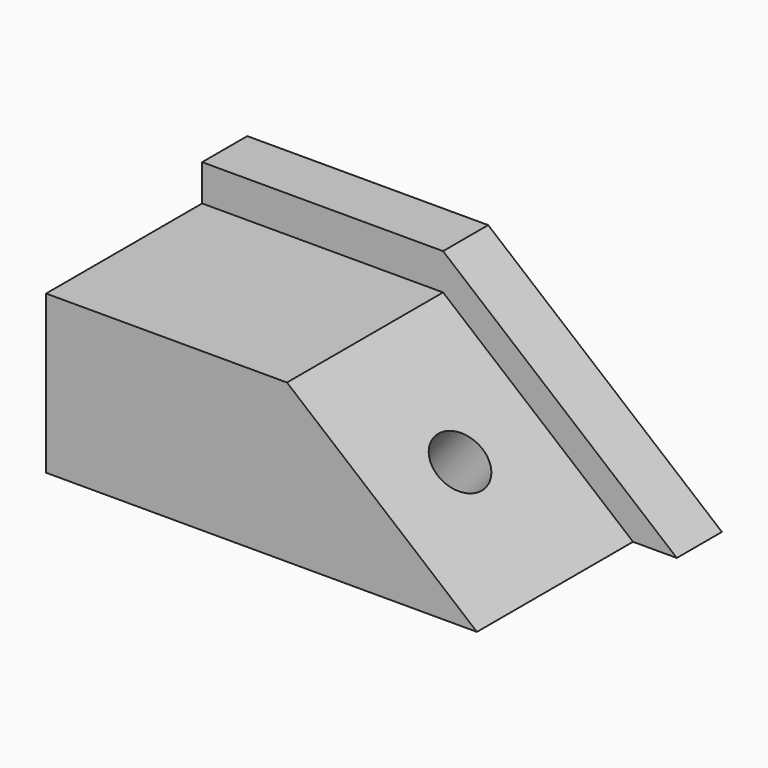
from build123d import *

# Parameters (mm, degrees)
F0_W     = 126.0763704777
F0_H     = 65.8090934157
F1_DEPTH = 50.8
F3_DEPTH = 51.054
F5_DEPTH = 25.4
F6_R     = 7.3849812588
F7_DEPTH = 47.244


with BuildPart() as f1:
    # F0 (on Top) → F1 (new body)
    with BuildSketch(Plane.XY):
        Rectangle(F0_W, F0_H)
    extrude(amount=F1_DEPTH)

    # F2 (on face) → F3 (cut)
    with BuildSketch(Plane.XZ.offset(32.9045467079)):
        Polygon((63.0381852388, 50.8), (-63.0381852388, 50.8), (-63.0381852388, 41.2882640958), (0, 41.2882640958), (49.7114025056, 0), (63.0381852388, 0), align=None)
    extrude(amount=-F3_DEPTH, mode=Mode.SUBTRACT)

    # F4 (on face) → F5 (cut)
    with BuildSketch(Plane.XZ.offset(-18.1494532921)):
        Polygon((63.0381852388, 50.8), (0, 50.8), (61.1636091415, 0), (63.0381852388, 0), align=None)
    extrude(amount=-F5_DEPTH, mode=Mode.SUBTRACT)

    # F6 (on face) → F7 (cut)
    with BuildSketch(Plane(origin=(20.2933884067, 0, 24.433403084), x_dir=(0.7692697728, 0, -0.6389241087), z_dir=(0.6389241087, 0, 0.7692697728))):
        with Locations((5.9307059858, -7.3775467079)):
            Circle(F6_R)
    extrude(amount=-F7_DEPTH, mode=Mode.SUBTRACT)


solid = f1.part
